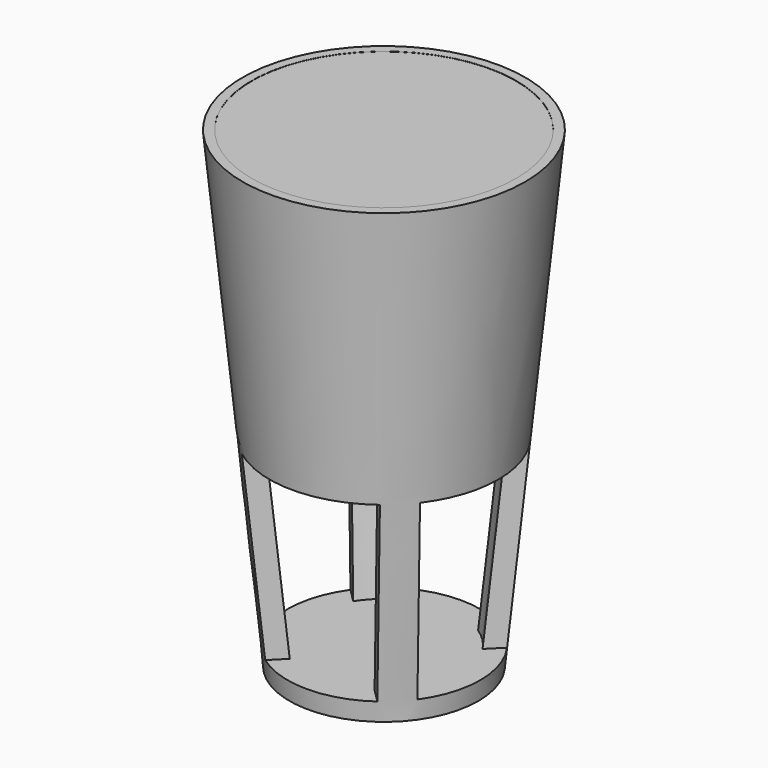
from build123d import *

# Parameters (mm, degrees)
F3_DEPTH = 29
F6_DEPTH = 2


with BuildPart() as f1:
    # F0 (on Front) → F1 (revolve)
    with BuildSketch(Plane.XZ):
        Polygon((0, 3), (0, 0), (15, 0), (22.447081343, 75), (21, 75), (17.0282232837, 35), (0, 35), (0, 32), (15.1626685751, 32), (12.2831304558, 3), align=None)
    revolve(axis=Axis((0, 0, 33.5), (0, 0, 1)))

    # F2 (on face) → F3 (cut)
    with BuildSketch(Plane.XY.offset(3)):
        with BuildLine():
            Line((12.2634482474, 15.7989821534), (15.6845353346, 19.2200692405))
            ThreePointArc((15.6845353346, 19.2200692405), (0, 24.8075736474), (-15.6845353346, 19.2200692405))
            Line((-15.6845353346, 19.2200692405), (-12.2634482474, 15.7989821534))
            Line((-12.2634482474, 15.7989821534), (-5.0787650158, 8.6142989218))
            ThreePointArc((-5.0787650158, 8.6142989218), (0, 10), (5.0787650158, 8.6142989218))
            Line((5.0787650158, 8.6142989218), (12.2634482474, 15.7989821534))
        make_face()
        with BuildLine():
            Line((19.2200692405, 15.6845353346), (15.7989821534, 12.2634482474))
            Line((15.7989821534, 12.2634482474), (8.6142989218, 5.0787650158))
            ThreePointArc((8.6142989218, 5.0787650158), (10, 0), (8.6142989218, -5.0787650158))
            Line((8.6142989218, -5.0787650158), (15.7989821534, -12.2634482474))
            Line((15.7989821534, -12.2634482474), (19.2200692405, -15.6845353346))
            ThreePointArc((19.2200692405, -15.6845353346), (24.8075736474, 0), (19.2200692405, 15.6845353346))
        make_face()
        with BuildLine():
            Line((-8.6142989218, 5.0787650158), (-15.7989821534, 12.2634482474))
            Line((-15.7989821534, 12.2634482474), (-19.2200692405, 15.6845353346))
            ThreePointArc((-19.2200692405, 15.6845353346), (-24.8075736474, 0), (-19.2200692405, -15.6845353346))
            Line((-19.2200692405, -15.6845353346), (-15.7989821534, -12.2634482474))
            Line((-15.7989821534, -12.2634482474), (-8.6142989218, -5.0787650158))
            ThreePointArc((-8.6142989218, -5.0787650158), (-10, 0), (-8.6142989218, 5.0787650158))
        make_face()
        with BuildLine():
            Line((15.6845353346, -19.2200692405), (12.2634482474, -15.7989821534))
            Line((12.2634482474, -15.7989821534), (5.0787650158, -8.6142989218))
            ThreePointArc((5.0787650158, -8.6142989218), (0, -10), (-5.0787650158, -8.6142989218))
            Line((-5.0787650158, -8.6142989218), (-12.2634482474, -15.7989821534))
            Line((-12.2634482474, -15.7989821534), (-15.6845353346, -19.2200692405))
            ThreePointArc((-15.6845353346, -19.2200692405), (0, -24.8075736474), (15.6845353346, -19.2200692405))
        make_face()
    extrude(amount=F3_DEPTH, mode=Mode.SUBTRACT)


with BuildPart() as f6:
    # F5 (on Front) → F6 (new body, symmetric)
    with BuildSketch(Plane.XZ):
        with BuildLine():
            Line((3, 33.25), (0, 33.25))
            Line((0, 33.25), (-3, 33.25))
            Line((-3, 33.25), (-3, 29.1189500386))
            ThreePointArc((-3, 29.1189500386), (-12, 17.5), (-3, 5.8810499614))
            Line((-3, 5.8810499614), (-3, 1.75))
            Line((-3, 1.75), (0, 1.75))
            Line((0, 1.75), (3, 1.75))
            Line((3, 1.75), (3, 5.8810499614))
            ThreePointArc((3, 5.8810499614), (12, 17.5), (3, 29.1189500386))
            Line((3, 29.1189500386), (3, 33.25))
        make_face()
    extrude(amount=F6_DEPTH, both=True)

    # F7 (on Front) → F8 (revolve, cut)
    with BuildSketch(Plane.XZ):
        Polygon((0, 33.25), (3, 33.25), (3, 29.1189500386), (5, 29.1189500386), (5, 34.3002825975), (0, 34.3002825975), align=None)
        Polygon((5, 0.6997174025), (5, 5.8810499614), (3, 5.8810499614), (3, 1.75), (0, 1.75), (0, 0.6997174025), align=None)
    revolve(axis=Axis((0, 0, 33.7751412988), (0, 0, 1)), mode=Mode.SUBTRACT)


with BuildPart() as f10:
    # F9 (on Front) → F10 (revolve)
    with BuildSketch(Plane.XZ):
        Polygon((20.4986119055, 69.9504906211), (20.9975468235, 74.9752939134), (0, 74.9752939134), (0, 34.9752939134), (17.0257701072, 34.9752939134), align=None)
    revolve(axis=Axis((0, 0, 54.9752939134), (0, 0, -1)))


solid = Compound([f1.part, f10.part])
